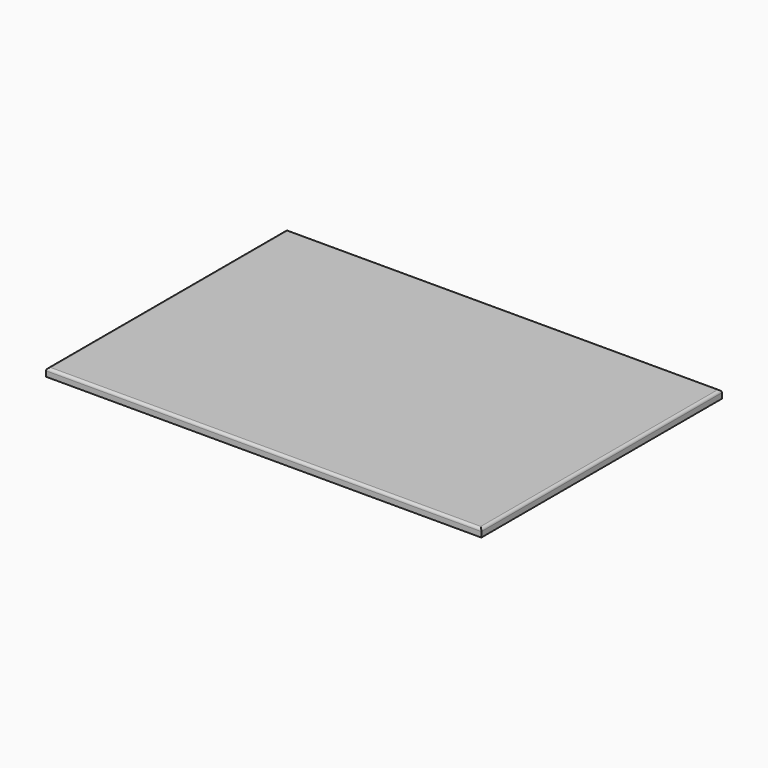
from build123d import *

# Parameters (mm, degrees)
F1_W     = 3300
F1_H     = 2280
F2_DEPTH = 60
F3_R     = 20


with BuildPart() as f2:
    # F1 (on face) → F2 (new body)
    with BuildSketch(Plane.XY):
        with Locations((522.139032, 125.475738)):
            Rectangle(F1_W, F1_H)
    extrude(amount=F2_DEPTH)

    # F3
    f3_edges = [f2.edges().sort_by_distance(p)[0] for p in [
        (2172.139032, 125.475738, 60),
        (522.139032, -1014.524262, 60),
        (-1127.860968, 125.475738, 60),
        (522.139032, 1265.475738, 60),
    ]]
    fillet(f3_edges, radius=F3_R)


solid = f2.part
